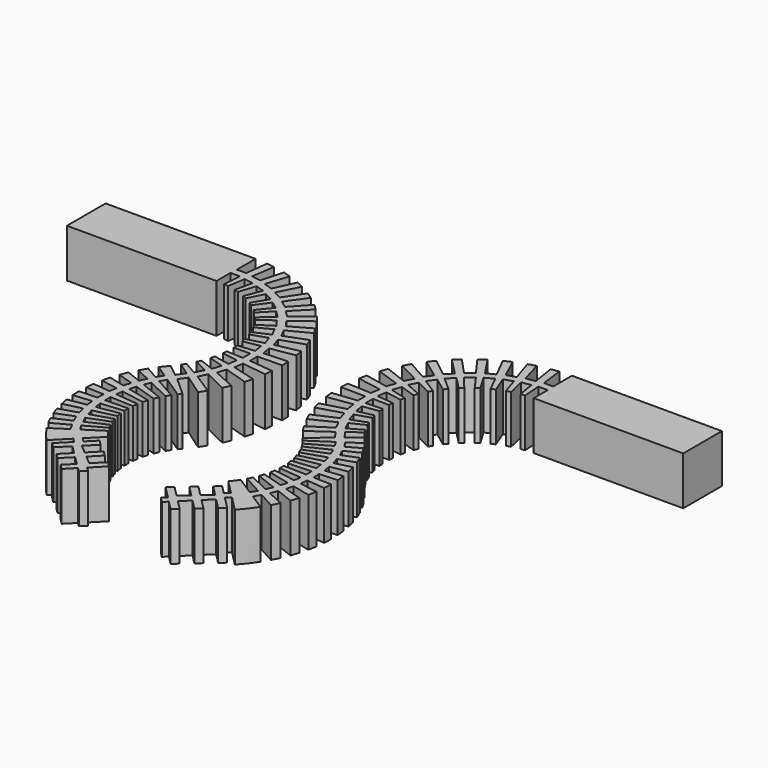
from build123d import *

# Parameters (mm, degrees)
F1_DEPTH = 13
F3_DEPTH = 13.001
F5_DEPTH = 25


with BuildPart() as f1:
    # F0 (on Top) → F1 (new body)
    with BuildSketch(Plane.XY):
        with BuildLine():
            Line((-77.870606, 57.787718), (-77.870606, 44.787718))
            Line((-77.870606, 44.787718), (-37.870606, 44.787718))
            ThreePointArc((-37.870606, 44.787718), (-17.891901, 31.976153), (-21.199664, 8.474162))
            ThreePointArc((-21.199664, 8.474162), (-28.887006, -12.940963), (-20.317826, -34.018724))
            Line((-20.317826, -34.018724), (-16.339471, -29.998829))
            Line((-16.339471, -29.998829), (-15.273317, -31.053967))
            Line((-15.273317, -31.053967), (-18.526139, -34.340753))
            Line((-18.526139, -34.340753), (-17.175676, -35.67726))
            Line((-17.175676, -35.67726), (-14.319399, -32.791159))
            Line((-14.319399, -32.791159), (-12.122944, -34.964916))
            Line((-12.122944, -34.964916), (-14.759661, -37.629163))
            Line((-14.759661, -37.629163), (-13.409198, -38.965671))
            Line((-13.409198, -38.965671), (-10.772482, -36.301423))
            Line((-10.772482, -36.301423), (-8.576028, -38.47518))
            Line((-8.576028, -38.47518), (-10.993183, -40.917574))
            Line((-10.993183, -40.917574), (-9.64272, -42.254081))
            Line((-9.64272, -42.254081), (-7.225565, -39.811687))
            Line((-7.225565, -39.811687), (-6.159411, -40.866824))
            Line((-6.159411, -40.866824), (-4.752561, -39.445285))
            Line((-4.752561, -39.445285), (-5.894305, -38.466526))
            Line((-5.894305, -38.466526), (-2.608472, -35.146384))
            Line((-2.608472, -35.146384), (-3.958934, -33.809877))
            Line((-3.958934, -33.809877), (-6.761979, -36.64219))
            Line((-6.761979, -36.64219), (-9.11416, -34.625785))
            Line((-9.11416, -34.625785), (-6.37495, -31.857974))
            Line((-6.37495, -31.857974), (-7.725412, -30.521467))
            Line((-7.725412, -30.521467), (-10.560369, -33.386024))
            Line((-10.560369, -33.386024), (-12.912549, -31.369619))
            Line((-12.912549, -31.369619), (-10.141428, -28.569564))
            Line((-10.141428, -28.569564), (-11.491891, -27.233056))
            Line((-11.491891, -27.233056), (-13.866467, -29.632427))
            Line((-13.866467, -29.632427), (-14.932622, -28.57729))
            Line((-14.932622, -28.57729), (-11.161495, -24.766787))
            ThreePointArc((-11.161495, -24.766787), (-15.893364, -12.417082), (-11.341237, 0))
            ThreePointArc((-11.341237, 0), (-6.077416, 37.399984), (-37.870606, 57.787718))
            Line((-37.870606, 57.787718), (-77.870606, 57.787718))
        make_face()
    extrude(amount=F1_DEPTH)

    # F2 (on Top) → F3 (cut, through all)
    with BuildSketch(Plane.XY):
        Polygon((-37.536812, 59.707303), (-37.536812, 51.497343), (-35.036812, 51.497343), (-34.036812, 59.707303), align=None)
        Polygon((-37.651815, 49.497343), (-37.651815, 33.817114), (-36.151815, 33.817114), (-35.151815, 49.497343), align=None)
        Polygon((-33.154308, 51.118625), (-30.684602, 50.730617), (-28.422509, 58.68589), (-31.880098, 59.229101), align=None)
        Polygon((-36.011942, 33.670483), (-34.530118, 33.437678), (-31.108617, 48.772701), (-33.578323, 49.160708), align=None)
        Polygon((-28.883687, 50.064317), (-26.504127, 49.297706), (-23.034762, 56.805498), (-26.366146, 57.878755), align=None)
        Polygon((-34.414698, 33.271115), (-32.986962, 32.811148), (-27.226879, 47.429322), (-29.606439, 48.195934), align=None)
        Polygon((-24.828446, 48.359973), (-22.596701, 47.233335), (-18.004143, 54.111696), (-21.128587, 55.688989), align=None)
        Polygon((-32.898792, 32.62869), (-31.559745, 31.952708), (-23.600673, 45.499765), (-25.832419, 46.626403), align=None)
        Polygon((-21.086864, 46.046894), (-19.057019, 44.587535), (-13.452569, 50.66977), (-16.294352, 52.712872), align=None)
        Polygon((-31.500961, 31.758776), (-30.283054, 30.883161), (-20.317881, 43.030791), (-22.347726, 44.49015), align=None)
        Polygon((-17.749617, 43.181139), (-15.970865, 41.424426), (-9.490345, 46.563132), (-11.980597, 49.022531), align=None)
        Polygon((-30.255081, 30.682456), (-29.18783, 29.628428), (-17.45806, 40.082235), (-19.236812, 41.838949), align=None)
        Polygon((-14.897582, 39.832159), (-13.413032, 37.820665), (-6.213496, 41.891307), (-8.291867, 44.707399), align=None)
        Polygon((-29.191346, 29.425813), (-28.300616, 28.218917), (-15.090518, 36.725555), (-16.575068, 38.73705), align=None)
        Polygon((-12.599878, 36.081116), (-11.445507, 33.863589), (-3.701435, 36.767515), (-5.317555, 39.872053), align=None)
        Polygon((-28.335535, 28.019303), (-27.642912, 26.688787), (-13.272631, 33.0421), (-14.427002, 35.259627), align=None)
        Polygon((-10.91219, 32.018914), (-10.115974, 29.649096), (-2.015042, 31.315931), (-3.129745, 34.633677), align=None)
        Polygon((-27.70839, 26.497012), (-27.23066, 25.075121), (-12.048455, 29.121137), (-12.844672, 31.490955), align=None)
        Polygon((-9.875419, 27.744002), (-9.456653, 25.279325), (-1.195186, 25.668673), (-1.781457, 29.119222), align=None)
        Polygon((-27.325108, 24.895831), (-27.073848, 23.417025), (-11.447659, 25.05769), (-11.866425, 27.522367), align=None)
        Polygon((-9.514689, 23.359981), (-9.483524, 20.860175), (-1.261736, 19.962601), (-1.305368, 23.462329), align=None)
        Polygon((-27.194978, 23.254567), (-27.176279, 21.754684), (-11.484802, 20.950236), (-11.515968, 23.450042), align=None)
        Polygon((-9.838745, 18.973096), (-10.195934, 16.498744), (-2.213079, 14.336), (-1.713014, 17.800092), align=None)
        Polygon((-27.321155, 21.612994), (-27.535468, 20.128383), (-12.158984, 16.898318), (-11.801795, 19.37267), align=None)
        Polygon((-10.839731, 14.689663), (-11.576619, 12.300731), (-4.02616, 8.92523), (-2.994517, 12.269735), align=None)
        Polygon((-27.700579, 20.010895), (-28.142712, 18.577536), (-13.453867, 13.000135), (-12.716979, 15.389067), align=None)
        Polygon((-12.493389, 10.613491), (-13.592118, 8.367874), (-6.657039, 3.861421), (-5.118819, 7.005285), align=None)
        Polygon((-28.324057, 18.487098), (-28.983294, 17.139728), (-15.338069, 9.350157), (-14.239341, 11.595774), align=None)
        Polygon((-14.759644, 6.843364), (-16.193585, 4.795483), (-10.041957, -0.732708), (-8.034439, 2.134324), align=None)
        Polygon((-29.176477, 17.078531), (-30.036842, 15.849803), (-17.765927, 6.036841), (-16.331986, 8.084721), align=None)
    extrude(amount=F3_DEPTH, mode=Mode.SUBTRACT)

    # F4 (on Top) → F5 (cut)
    with BuildSketch(Plane.XY):
        Polygon((-18.581311, 1.683327), (4.617409, -11.427034), (-17.6655, 3.30385), align=None)
        Polygon((-20.142134, -1.576796), (4.617409, -11.427034), (-19.454056, 0.152756), align=None)
        Polygon((-21.247402, -5.018155), (4.617409, -11.427034), (-20.799716, -3.211396), align=None)
        Polygon((-21.876778, -8.577432), (4.617409, -11.427034), (-21.677722, -6.726709), align=None)
        Polygon((-22.018682, -12.18914), (4.617409, -11.427034), (-22.071918, -10.328504), align=None)
        Polygon((-21.670504, -15.786826), (4.617409, -11.427034), (-21.975053, -13.950511), align=None)
        Polygon((-20.83865, -19.304295), (4.617409, -11.427034), (-21.388907, -17.526089), align=None)
        Polygon((-19.538424, -22.676829), (4.617409, -11.427034), (-20.324267, -20.989449), align=None)
        Polygon((-17.793751, -25.842376), (4.617409, -11.427034), (-18.800719, -24.276868), align=None)
        Polygon((-19.279719, 4.370985), (-26.491642, 9.138674), (-27.759888, 6.870444), (-20.383273, 2.701676), align=None)
        Polygon((-21.197842, 0.99162), (-28.988635, 4.73945), (-29.938252, 2.320453), (-22.065334, -0.811677), align=None)
        Polygon((-22.640984, -2.616238), (-30.867305, 0.042775), (-31.480819, -2.482481), (-23.256453, -4.520345), align=None)
        Polygon((-23.582595, -6.386208), (-32.093084, -4.864935), (-32.359208, -7.449987), (-23.934716, -8.356089), align=None)
        Polygon((-24.005347, -10.248924), (-32.643419, -9.893382), (-32.557257, -12.490668), (-24.087643, -12.248337), align=None)
        Polygon((-23.901465, -14.133317), (-32.508186, -14.950047), (-32.071322, -17.511779), (-23.71242, -16.125473), align=None)
        Polygon((-23.272858, -17.967917), (-31.689871, -19.941892), (-30.910344, -22.420935), (-22.815951, -19.916162), align=None)
        Polygon((-22.131092, -21.682169), (-30.203532, -24.77707), (-29.095684, -27.127813), (-21.414731, -23.550658), align=None)
        Polygon((-20.497176, -25.207736), (-28.076516, -29.366619), (-26.66073, -31.545808), (-19.53454, -26.962089), align=None)
    extrude(amount=F5_DEPTH, mode=Mode.SUBTRACT)


with BuildPart() as f7_1:
    # F7: instance of F1
    add(f1.part.mirror(Plane.YZ.offset(5)))


solid = Compound([f1.part, f7_1.part])
